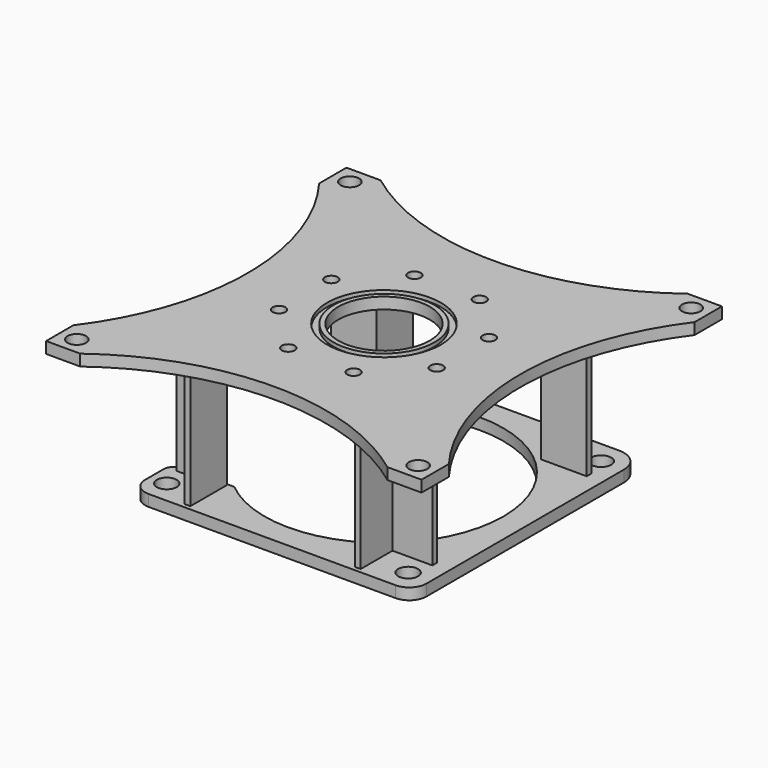
from build123d import *

# Parameters (mm, degrees)
F0_R      = 11.1125
F1_DEPTH  = 12.7
F3_DEPTH  = 133.35
F6_W      = 419.1
F6_H      = 419.1
F6_R      = 10.31875
F6_R_2    = 7.14375
F6_R_3    = 51.15
F7_DEPTH  = 12.7
F9_DEPTH  = 25.4
F10_R     = 63.5
F10_R_2   = 56.3626
F11_DEPTH = 4.318


with BuildPart() as f1:
    # F0 (on Top) → F1 (new body)
    with BuildSketch(Plane.XY):
        with BuildLine():
            ThreePointArc((-84.7509820316, 102.953841816), (133.35, 0), (-84.7509820316, -102.953841816))
            Line((-84.7509820316, -102.953841816), (-141.053841816, -102.953841816))
            ThreePointArc((-141.053841816, -102.953841816), (-150.0340979371, -106.673585695), (-153.753841816, -115.653841816))
            Line((-153.753841816, -115.653841816), (-153.753841816, -141.053841816))
            ThreePointArc((-153.753841816, -141.053841816), (-148.1742259976, -154.5242259976), (-134.703841816, -160.103841816))
            Line((-134.703841816, -160.103841816), (141.053841816, -160.103841816))
            ThreePointArc((141.053841816, -160.103841816), (154.5242259976, -154.5242259976), (160.103841816, -141.053841816))
            Line((160.103841816, -141.053841816), (160.103841816, 134.703841816))
            ThreePointArc((160.103841816, 134.703841816), (152.6643540582, 152.6643540582), (134.703841816, 160.103841816))
            Line((134.703841816, 160.103841816), (-134.703841816, 160.103841816))
            ThreePointArc((-134.703841816, 160.103841816), (-148.1742259976, 154.5242259976), (-153.753841816, 141.053841816))
            Line((-153.753841816, 141.053841816), (-153.753841816, 115.653841816))
            ThreePointArc((-153.753841816, 115.653841816), (-150.0340979371, 106.673585695), (-141.053841816, 102.953841816))
            Line((-141.053841816, 102.953841816), (-84.7509820316, 102.953841816))
        make_face()
        with Locations((-134.703841816, -134.703841816)):
            Circle(F0_R, mode=Mode.SUBTRACT)
        with Locations((134.703841816, -134.703841816)):
            Circle(F0_R, mode=Mode.SUBTRACT)
        with Locations((-134.703841816, 134.703841816)):
            Circle(F0_R, mode=Mode.SUBTRACT)
        with Locations((134.703841816, 134.703841816)):
            Circle(F0_R, mode=Mode.SUBTRACT)
    extrude(amount=F1_DEPTH)


with BuildPart() as f3:
    # F2 (on face) → F3 (new body)
    with BuildSketch(Plane.XY.offset(12.7)):
        Polygon((-91.841341816, 104.541341816), (-91.841341816, 155.341341816), (-98.191341816, 155.341341816), (-98.191341816, 110.891341816), (-142.641341816, 110.891341816), (-142.641341816, 104.541341816), align=None)
    extrude(amount=F3_DEPTH)


with BuildPart() as f4_1:
    # F4: instance of F3
    add(f3.part.mirror(Plane.YZ))


with BuildPart() as f5_1:
    # F5: instance of F3
    add(f3.part.mirror(Plane.XZ))


with BuildPart() as f5_2:
    # F5: instance of F4_1
    add(f4_1.part.mirror(Plane.XZ))


with BuildPart() as f7:
    # F6 (on face) → F7 (new body)
    with BuildSketch(Plane.XY.offset(146.05)):
        Rectangle(F6_W, F6_H)
        with Locations((-190.5, -190.5)):
            Circle(F6_R, mode=Mode.SUBTRACT)
        with Locations((-36.4505969328, -87.9995254717)):
            Circle(F6_R_2, mode=Mode.SUBTRACT)
        with Locations((-87.9995254717, -36.4505969328)):
            Circle(F6_R_2, mode=Mode.SUBTRACT)
        with Locations((190.5, -190.5)):
            Circle(F6_R, mode=Mode.SUBTRACT)
        with Locations((36.4505969328, -87.9995254717)):
            Circle(F6_R_2, mode=Mode.SUBTRACT)
        with Locations((87.9995254717, -36.4505969328)):
            Circle(F6_R_2, mode=Mode.SUBTRACT)
        with Locations((-87.9995254717, 36.4505969328)):
            Circle(F6_R_2, mode=Mode.SUBTRACT)
        with Locations((-36.4505969328, 87.9995254717)):
            Circle(F6_R_2, mode=Mode.SUBTRACT)
        Polygon((-91.841341816, 104.541341816), (-142.641341816, 104.541341816), (-142.641341816, 110.891341816), (-98.191341816, 110.891341816), (-98.191341816, 155.341341816), (-91.841341816, 155.341341816), align=None, mode=Mode.SUBTRACT)
        with Locations((-190.5, 190.5)):
            Circle(F6_R, mode=Mode.SUBTRACT)
        Circle(F6_R_3, mode=Mode.SUBTRACT)
        with Locations((87.9995254717, 36.4505969328)):
            Circle(F6_R_2, mode=Mode.SUBTRACT)
        with Locations((36.4505969328, 87.9995254717)):
            Circle(F6_R_2, mode=Mode.SUBTRACT)
        with Locations((190.5, 190.5)):
            Circle(F6_R, mode=Mode.SUBTRACT)
        Rectangle(F6_W, F6_H)
        with Locations((-190.5, -190.5)):
            Circle(F6_R, mode=Mode.SUBTRACT)
        with Locations((-36.4505969328, -87.9995254717)):
            Circle(F6_R_2, mode=Mode.SUBTRACT)
        with Locations((-87.9995254717, -36.4505969328)):
            Circle(F6_R_2, mode=Mode.SUBTRACT)
        with Locations((190.5, -190.5)):
            Circle(F6_R, mode=Mode.SUBTRACT)
        with Locations((36.4505969328, -87.9995254717)):
            Circle(F6_R_2, mode=Mode.SUBTRACT)
        with Locations((87.9995254717, -36.4505969328)):
            Circle(F6_R_2, mode=Mode.SUBTRACT)
        with Locations((-87.9995254717, 36.4505969328)):
            Circle(F6_R_2, mode=Mode.SUBTRACT)
        with Locations((-36.4505969328, 87.9995254717)):
            Circle(F6_R_2, mode=Mode.SUBTRACT)
        Polygon((-91.841341816, 104.541341816), (-142.641341816, 104.541341816), (-142.641341816, 110.891341816), (-98.191341816, 110.891341816), (-98.191341816, 155.341341816), (-91.841341816, 155.341341816), align=None, mode=Mode.SUBTRACT)
        with Locations((-190.5, 190.5)):
            Circle(F6_R, mode=Mode.SUBTRACT)
        Circle(F6_R_3, mode=Mode.SUBTRACT)
        with Locations((87.9995254717, 36.4505969328)):
            Circle(F6_R_2, mode=Mode.SUBTRACT)
        with Locations((36.4505969328, 87.9995254717)):
            Circle(F6_R_2, mode=Mode.SUBTRACT)
        with Locations((190.5, 190.5)):
            Circle(F6_R, mode=Mode.SUBTRACT)
        Polygon((-142.641341816, 110.891341816), (-142.641341816, 104.541341816), (-91.841341816, 104.541341816), (-91.841341816, 155.341341816), (-98.191341816, 155.341341816), (-98.191341816, 110.891341816), align=None)
    extrude(amount=F7_DEPTH)

    # F8 (on face) → F9 (cut)
    with BuildSketch(Plane.XY.offset(158.75)):
        with BuildLine():
            Line((-209.55, 171.45), (-209.55, -171.45))
            ThreePointArc((-209.55, -171.45), (-152.4, 0), (-209.55, 171.45))
        make_face()
        with BuildLine():
            Line((171.45, 209.55), (-171.45, 209.55))
            ThreePointArc((-171.45, 209.55), (0, 152.4), (171.45, 209.55))
        make_face()
        with BuildLine():
            ThreePointArc((209.55, 171.45), (152.4, 0), (209.55, -171.45))
            Line((209.55, -171.45), (209.55, 171.45))
        make_face()
        with BuildLine():
            ThreePointArc((171.45, -209.55), (0, -152.4), (-171.45, -209.55))
            Line((-171.45, -209.55), (171.45, -209.55))
        make_face()
    extrude(amount=-F9_DEPTH, mode=Mode.SUBTRACT)

    # F10 (on face) → F11 (cut)
    with BuildSketch(Plane.XY.offset(158.75)):
        Circle(F10_R)
        Circle(F10_R_2, mode=Mode.SUBTRACT)
    extrude(amount=-F11_DEPTH, mode=Mode.SUBTRACT)


solid = Compound([f1.part, f3.part, f4_1.part, f5_1.part, f5_2.part, f7.part])
